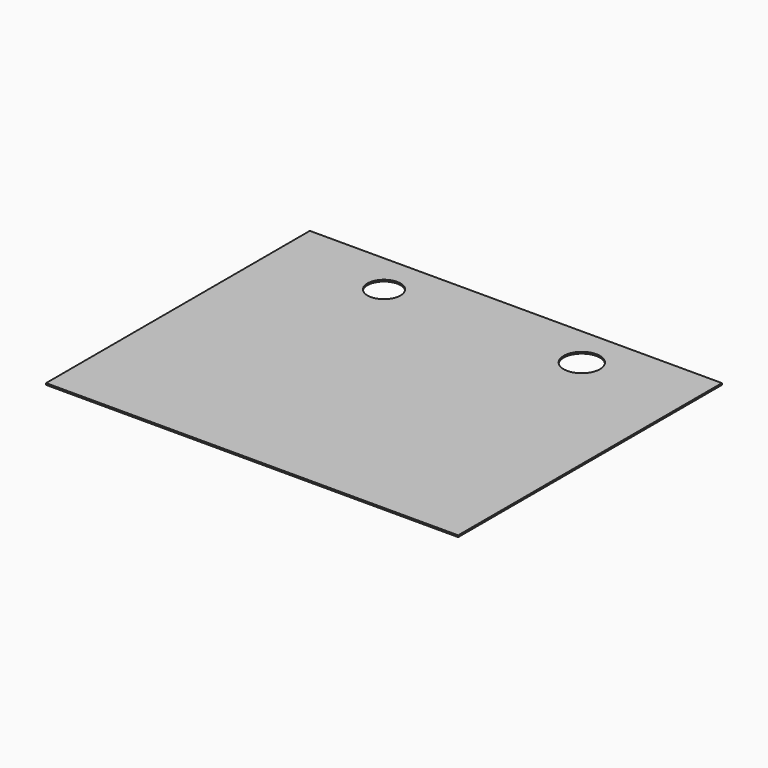
from build123d import *

# Parameters (mm, degrees)
F0_R     = 10
F0_R_2   = 11
F1_DEPTH = 1


with BuildPart() as f1:
    # F0 (on Top) → F1 (new body)
    with BuildSketch(Plane.XY):
        Polygon((0, 200), (0, 0), (250, 0), (250, 200), (185, 200), (65, 200), align=None)
        with Locations((65, 175)):
            Circle(F0_R, mode=Mode.SUBTRACT)
        with Locations((185, 175)):
            Circle(F0_R_2, mode=Mode.SUBTRACT)
    extrude(amount=F1_DEPTH)


solid = f1.part
